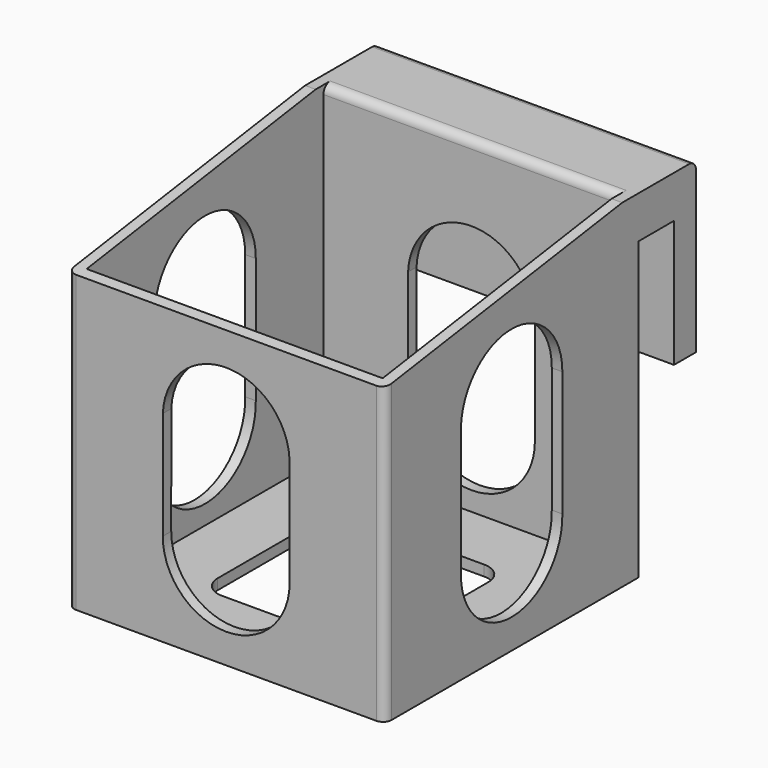
from build123d import *

# Parameters (mm, degrees)
F0_W      = 75
F0_H      = 75
F0_W_2    = 70
F0_H_2    = 70
F1_DEPTH  = 80
F2_T      = -2.5
F4_DEPTH  = 75.001
F5_W      = 75
F5_H      = 40
F6_DEPTH  = 17
F7_W      = 75
F7_H      = 10.5
F8_DEPTH  = 30
F9_R      = 2
F11_DEPTH = 75.001
F13_DEPTH = 80.6
F15_DEPTH = 2.501


with BuildPart() as f1:
    # F0 (on Top) → F1 (new body)
    with BuildSketch(Plane.XY):
        Rectangle(F0_W, F0_H)
        Rectangle(F0_W_2, F0_H_2, mode=Mode.SUBTRACT)
        Rectangle(F0_W_2, F0_H_2)
    extrude(amount=F1_DEPTH)

    # F2
    f2_openings = [f1.faces().sort_by_distance(p)[0] for p in [
        (0, 0, 80),
    ]]
    offset(amount=F2_T, openings=f2_openings)

    # F3 (on face) → F4 (cut, through all)
    with BuildSketch(Plane(origin=(-37.5, 0, 0), x_dir=(0, -1, 0), z_dir=(-1, 0, 0))):
        Polygon((37.5, 80), (-32.6899588108, 80), (37.5, 69.7793290019), align=None)
    extrude(amount=-F4_DEPTH, mode=Mode.SUBTRACT)

    # F5 (on face) → F6 (join)
    with BuildSketch(Plane(origin=(0, 37.5, 0), x_dir=(-1, 0, 0), z_dir=(0, 1, 0))):
        with Locations((0, 60)):
            Rectangle(F5_W, F5_H)
    extrude(amount=F6_DEPTH)

    # F7 (on face) → F8 (cut)
    with BuildSketch(Plane(origin=(0, 0, 40), x_dir=(1, 0, 0), z_dir=(0, 0, -1))):
        with Locations((0, -42.75)):
            Rectangle(F7_W, F7_H)
    extrude(amount=-F8_DEPTH, mode=Mode.SUBTRACT)

    # F9
    f9_edges = [f1.edges().sort_by_distance(p)[0] for p in [
        (0, 54.5, 80),
        (-37.5, -37.5, 34.889665),
        (37.5, -37.5, 34.889665),
        (0, 35, 80),
    ]]
    fillet(f9_edges, radius=F9_R)

    # F10 (on face) → F11 (cut, through all)
    with BuildSketch(Plane.YZ.offset(37.5)):
        with BuildLine():
            Line((-14.9888207723, 52.579009374), (-14.998647473, 21.7985701573))
            ThreePointArc((-14.998647473, 21.7985701573), (0.2893425083, 7.0027908959), (14.9952554508, 22.3772452324))
            Line((14.9952554508, 22.3772452324), (14.9999923512, 51.9848519034))
            ThreePointArc((14.9999923512, 51.9848519034), (0.2971312437, 66.9970568121), (-14.9888207723, 52.579009374))
        make_face()
    extrude(amount=-F11_DEPTH, mode=Mode.SUBTRACT)

    # F12 (on face) → F13 (cut)
    with BuildSketch(Plane.XZ.offset(37.5)):
        with BuildLine():
            Line((-14.9889976507, 47.5744122453), (-14.9999986115, 22.0064539529))
            ThreePointArc((-14.9999986115, 22.0064539529), (0.0022397735, 7.0000001672), (14.9999960153, 22.0109334991))
            Line((14.9999960153, 22.0109334991), (14.9812347551, 47.7500701389))
            ThreePointArc((14.9812347551, 47.7500701389), (-0.0879146719, 61.9997423648), (-14.9889976507, 47.5744122453))
        make_face()
    extrude(amount=-F13_DEPTH, mode=Mode.SUBTRACT)

    # F14 (on face) → F15 (cut, through all)
    with BuildSketch(Plane.XY.offset(2.5)):
        with BuildLine():
            Line((15, 20), (-15, 20))
            ThreePointArc((-15, 20), (-18.5355339059, 18.5355339059), (-20, 15))
            Line((-20, 15), (-20, -15))
            ThreePointArc((-20, -15), (-18.5355339059, -18.5355339059), (-15, -20))
            Line((-15, -20), (15, -20))
            ThreePointArc((15, -20), (18.5355339059, -18.5355339059), (20, -15))
            Line((20, -15), (20, 15))
            ThreePointArc((20, 15), (18.5355339059, 18.5355339059), (15, 20))
        make_face()
    extrude(amount=-F15_DEPTH, mode=Mode.SUBTRACT)


solid = f1.part
